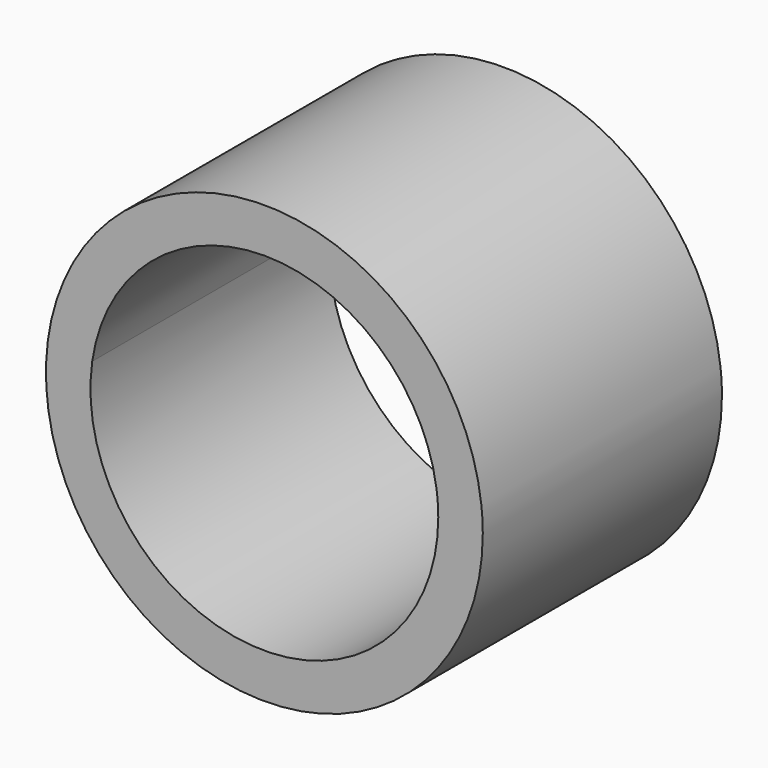
from build123d import *

# Parameters (mm, degrees)
F1_DEPTH = 25.4
F2_DEPTH = 25.4


with BuildPart() as f1:
    # F0 (on Front) → F1 (new body)
    with BuildSketch(Plane.XZ):
        with BuildLine():
            Line((18.2683317036, 0), (14.4545063752, 0))
            ThreePointArc((14.4545063752, 0), (31.8336858212, -20.6463773711), (51.4538538943, -2.1164615173))
            ThreePointArc((51.4538538943, -2.1164615173), (51.4235623622, -1.0565008301), (51.3327866417, 0))
            Line((51.3327866417, 0), (47.5189613133, 0))
            ThreePointArc((47.5189613133, 0), (47.6331711912, -1.0554927985), (47.6713067595, -2.1164615173))
            ThreePointArc((47.6713067595, -2.1164615173), (31.8326777896, -16.8559862), (18.2683317036, 0))
        make_face()
    extrude(amount=F1_DEPTH)

    # F0 (on Front) → F2 (join)
    with BuildSketch(Plane.XZ):
        with BuildLine():
            ThreePointArc((51.3327866417, 0), (32.8936465085, 16.4437458686), (14.4545063752, 0))
            Line((14.4545063752, 0), (18.2683317036, 0))
            ThreePointArc((18.2683317036, 0), (32.8936465085, 12.6611987337), (47.5189613133, 0))
            Line((47.5189613133, 0), (51.3327866417, 0))
        make_face()
    extrude(amount=F2_DEPTH)


solid = f1.part
